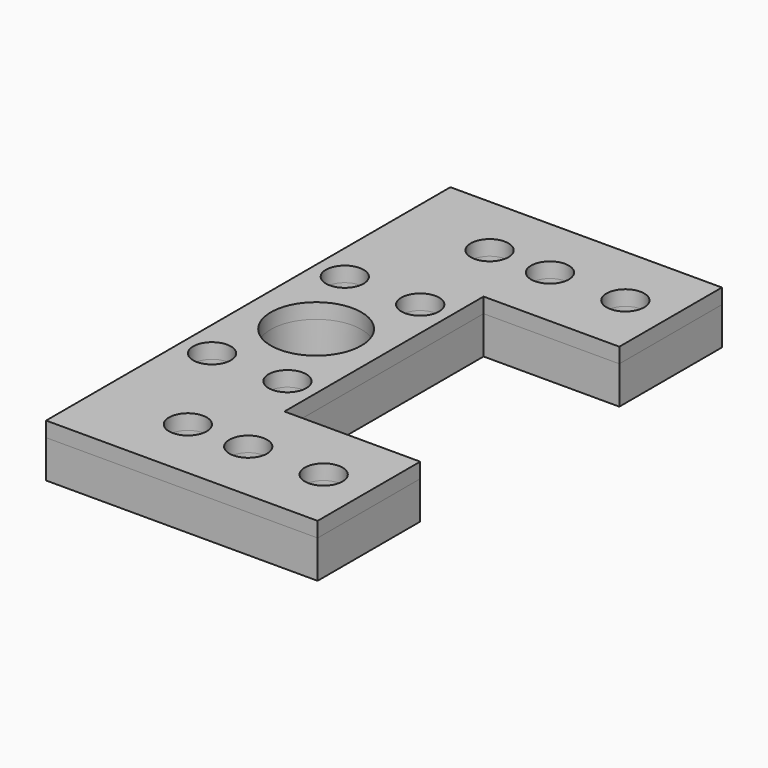
from build123d import *

# Parameters (mm, degrees)
F0_R        = 12.5
F0_R_2      = 30
F1_DEPTH    = 25
F1_FACE_R   = 12.5
F1_FACE_R_2 = 30
F2_DEPTH    = 10


with BuildPart() as f1:
    # F0 (on Top) → F1 (new body)
    with BuildSketch(Plane.XY):
        Polygon((-25, 0), (-25, 82.5), (65, 82.5), (65, 167.5), (-115, 167.5), (-115, -167.5), (65, -167.5), (65, -82.5), (-25, -82.5), align=None)
        with Locations((-55, -125)):
            Circle(F0_R, mode=Mode.SUBTRACT)
        with Locations((-95, -55)):
            Circle(F0_R, mode=Mode.SUBTRACT)
        with Locations((-45, -55)):
            Circle(F0_R, mode=Mode.SUBTRACT)
        with Locations((-15, -125)):
            Circle(F0_R, mode=Mode.SUBTRACT)
        with Locations((35, -125)):
            Circle(F0_R, mode=Mode.SUBTRACT)
        with Locations((-95, 55)):
            Circle(F0_R, mode=Mode.SUBTRACT)
        with Locations((-70, 0)):
            Circle(F0_R_2, mode=Mode.SUBTRACT)
        with Locations((-45, 55)):
            Circle(F0_R, mode=Mode.SUBTRACT)
        with Locations((-55, 125)):
            Circle(F0_R, mode=Mode.SUBTRACT)
        with Locations((-15, 125)):
            Circle(F0_R, mode=Mode.SUBTRACT)
        with Locations((35, 125)):
            Circle(F0_R, mode=Mode.SUBTRACT)
    extrude(amount=F1_DEPTH)


with BuildPart() as f2:
    # F1_face (on face) → F2 (new body)
    with BuildSketch(Plane(origin=(-38.043707, 0, 25), x_dir=(1, 0, 0), z_dir=(0, 0, 1))):
        Polygon((13.043707, -82.5), (13.043707, 82.5), (103.043707, 82.5), (103.043707, 167.5), (-76.956293, 167.5), (-76.956293, -167.5), (103.043707, -167.5), (103.043707, -82.5), align=None)
        with Locations((-16.956293, -125)):
            Circle(F1_FACE_R, mode=Mode.SUBTRACT)
        with Locations((-56.956293, -55)):
            Circle(F1_FACE_R, mode=Mode.SUBTRACT)
        with Locations((-6.956293, -55)):
            Circle(F1_FACE_R, mode=Mode.SUBTRACT)
        with Locations((23.043707, -125)):
            Circle(F1_FACE_R, mode=Mode.SUBTRACT)
        with Locations((73.043707, -125)):
            Circle(F1_FACE_R, mode=Mode.SUBTRACT)
        with Locations((-56.956293, 55)):
            Circle(F1_FACE_R, mode=Mode.SUBTRACT)
        with Locations((-31.956293, 0)):
            Circle(F1_FACE_R_2, mode=Mode.SUBTRACT)
        with Locations((-6.956293, 55)):
            Circle(F1_FACE_R, mode=Mode.SUBTRACT)
        with Locations((-16.956293, 125)):
            Circle(F1_FACE_R, mode=Mode.SUBTRACT)
        with Locations((23.043707, 125)):
            Circle(F1_FACE_R, mode=Mode.SUBTRACT)
        with Locations((73.043707, 125)):
            Circle(F1_FACE_R, mode=Mode.SUBTRACT)
    extrude(amount=F2_DEPTH)


solid = Compound([f1.part, f2.part])
